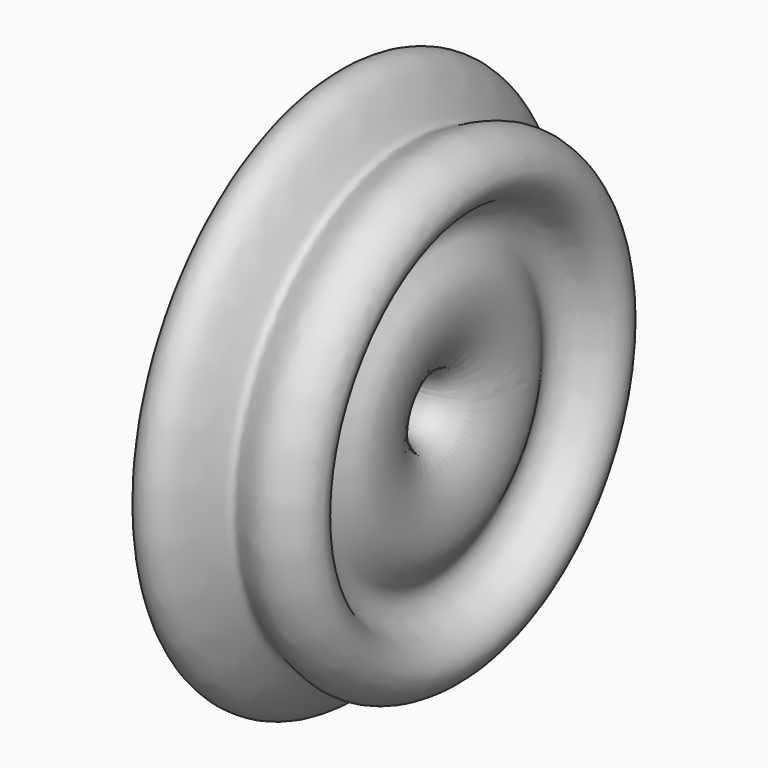
from build123d import *


with BuildPart() as f1:
    # F0 (on Top) → F1 (revolve)
    with BuildSketch(Plane.XY):
        with BuildLine():
            add(Edge.make_bspline(
                [(0, 30.799601227), (1.3764863579, 29.16868624), (4.1502500828, 27.954402596), (15.5549696676, 37.1946367391), (30.325030624, 31.7756819531), (36.0072839475, 21.5802756335), (30.0563110124, 11.6631991054), (20.4638723442, 8.8930748496), (15.1814512368, -4.3327506835), (31.8774497285, -15.2584545878), (24.0305177382, -58.764368004), (-9.1644944958, -54.3448095354), (-10.5473327757, -31.7285586233), (-11.7613622134, -10.2662437541), (-31.1131787969, -20.8304447572), (-42.9232872408, -16.7992315557), (-50.5883139493, -2.7543834083), (-40.9246463967, 12.4173994493), (-20.8779528456, -2.8102769072), (-10.6567990156, 13.0207231186), (-28.4208098995, 18.22992986), (-32.2114594329, 45.1215202091), (-12.0101654505, 51.9875188527), (-3.0993200806, 34.4717971338), (0, 30.799601227)],
                knots=[0, 0, 0, 0, 0.0243822398, 0.0665740159, 0.1113275023, 0.1488707325, 0.18582083, 0.2225992423, 0.2609549996, 0.3095745401, 0.3797568226, 0.4356846109, 0.4900109366, 0.5367544231, 0.5841001691, 0.6245812156, 0.6689726811, 0.7100982447, 0.7625215393, 0.8005431619, 0.8450521446, 0.9007215907, 0.9451005344, 1, 1, 1, 1], degree=3))
        make_face()
    revolve(axis=Axis((2.8734318912, -65.7008029521, 0), (0.9985602077, 0.0536424413, 0)))


solid = f1.part
